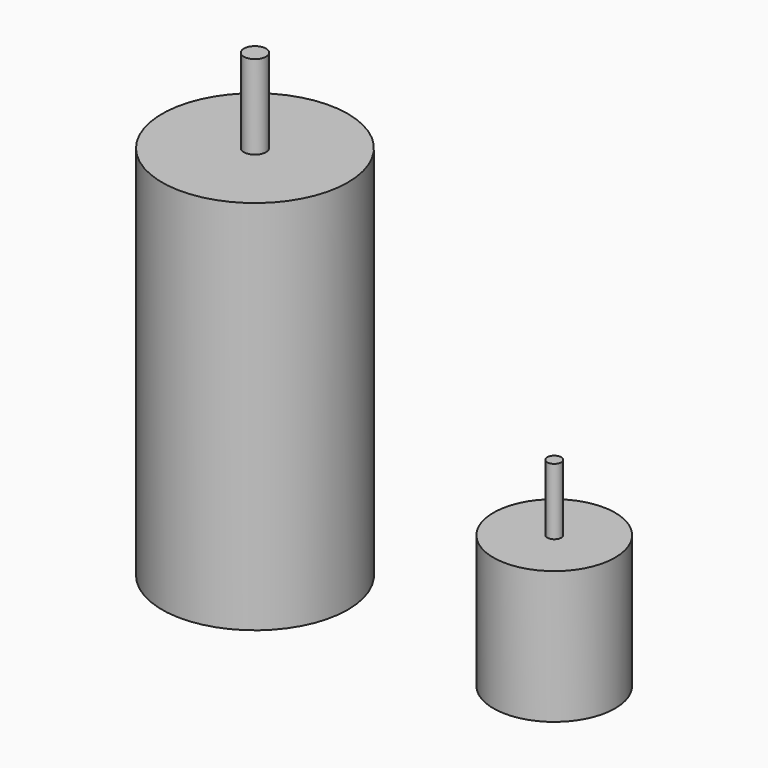
from build123d import *

# Parameters (mm, degrees)
F0_R     = 13.75
F1_DEPTH = 30
F2_R     = 1.585
F3_DEPTH = 15
F4_R     = 21
F5_DEPTH = 85
F6_R     = 2.5
F7_DEPTH = 19


with BuildPart() as f1:
    # F0 (on Top) → F1 (new body)
    with BuildSketch(Plane.XY):
        Circle(F0_R)
    extrude(amount=F1_DEPTH)

    # F2 (on face) → F3 (join)
    with BuildSketch(Plane.XY.offset(30)):
        Circle(F2_R)
    extrude(amount=F3_DEPTH)


with BuildPart() as f5:
    # F4 (on Top) → F5 (new body)
    with BuildSketch(Plane.XY):
        with Locations((-67.636903, 0)):
            Circle(F4_R)
    extrude(amount=F5_DEPTH)

    # F6 (on face) → F7 (join)
    with BuildSketch(Plane.XY.offset(85)):
        with Locations((-67.636903, 0)):
            Circle(F6_R)
    extrude(amount=F7_DEPTH)


solid = Compound([f1.part, f5.part])
